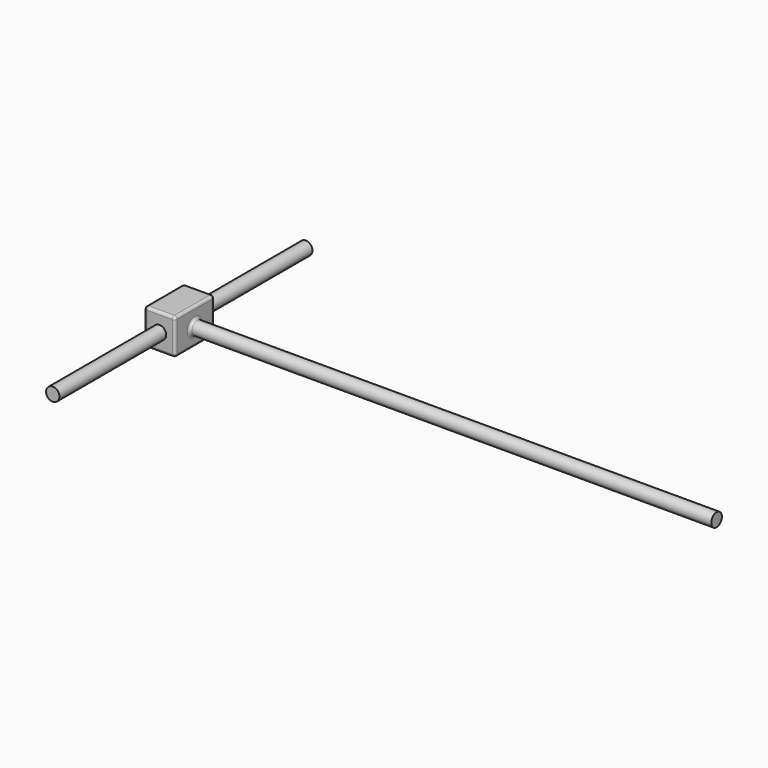
from build123d import *

# Parameters (mm, degrees)
F0_R     = 50
F1_DEPTH = 3910
F3_DEPTH = 230
F4_R     = 20
F5_R     = 50
F6_DEPTH = 1000
F7_DEPTH = 1370
F8_DEPTH = 1000


with BuildPart() as f1:
    # F0 (on Right) → F1 (new body)
    with BuildSketch(Plane.YZ):
        Circle(F0_R)
    extrude(amount=F1_DEPTH)

    # F2 (on face) → F3 (join)
    with BuildSketch(Plane(origin=(0, 0, 0), x_dir=(0, -1, 0), z_dir=(-1, 0, 0))):
        Polygon((0, 8.0146994442), (0, 0), (0, -131.1225444078), (184, -131.1225444078), (184, 136.4490687847), (0, 136.4490687847), align=None)
        Polygon((0, -131.1225444078), (0, 0), (0, 8.0146994442), (0, 136.4490687847), (-184.1358691454, 136.4490687847), (-184.1358691454, -131.1225444078), align=None)
    extrude(amount=F3_DEPTH)

    # F4
    f4_edges = [f1.edges().sort_by_distance(p)[0] for p in [
        (-115, -184, 136.449069),
        (-115, 184.135869, 136.449069),
        (0, 0.067935, 136.449069),
        (-230, 0.067935, 136.449069),
        (-115, -184, -131.122544),
        (0, -184, 2.663262),
        (-230, -184, 2.663262),
        (-230, 184.135869, 2.663262),
        (-230, 0.067935, -131.122544),
        (-115, 184.135869, -131.122544),
        (0, 0.067935, -131.122544),
        (0, 184.135869, 2.663262),
        (0, -50, 0),
    ]]
    fillet(f4_edges, radius=F4_R)

    # F5 (on face) → F6 (join)
    with BuildSketch(Plane.XZ.offset(184)):
        with Locations((-116.0879656672, 0)):
            Circle(F5_R)
    extrude(amount=F6_DEPTH)

    # F7 (add): a face of the model
    f7_faces = [f1.faces().sort_by_distance(p)[0] for p in [
        (-116.0879656672, -1184, 0),
    ]]
    extrude(f7_faces, amount=-F7_DEPTH)

    # F8 (add): a face of the model
    f8_faces = [f1.faces().sort_by_distance(p)[0] for p in [
        (-116.0879656672, 186, 0),
    ]]
    extrude(f8_faces, amount=F8_DEPTH)


solid = f1.part
